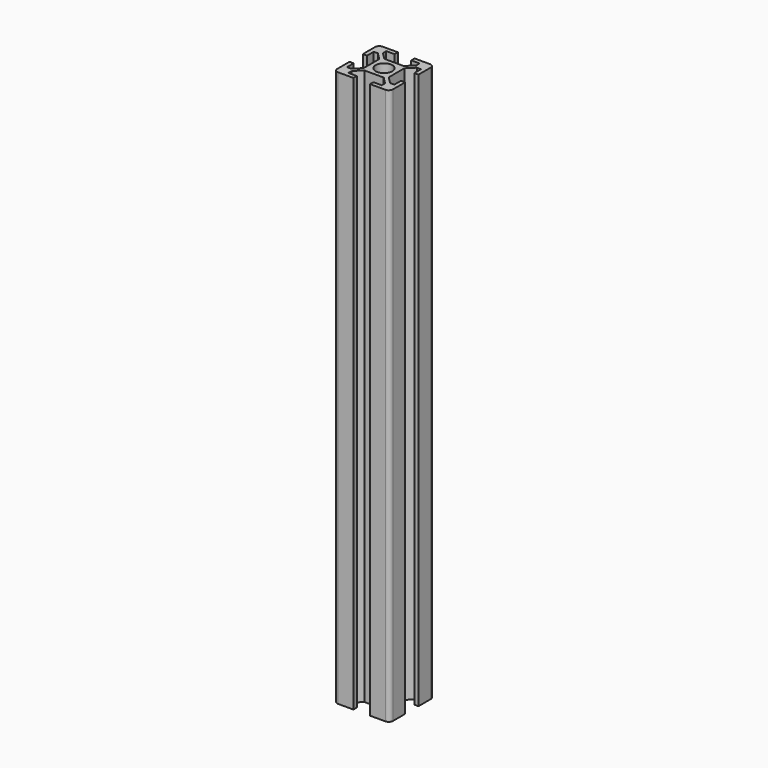
from build123d import *

# Parameters (mm, degrees)
F0_R     = 3
F1_DEPTH = 200


with BuildPart() as f1:
    # F0 (on Top) → F1 (new body)
    with BuildSketch(Plane.XY):
        with BuildLine():
            ThreePointArc((0, 1.5), (0.43934, 0.43934), (1.5, 0))
            Line((1.5, 0), (7, 0))
            Line((7, 0), (7, 1.5))
            Line((7, 1.5), (4, 1.5))
            Line((4, 1.5), (4, 3))
            Line((4, 3), (6.5, 5.5))
            Line((6.5, 5.5), (10, 5.5))
            Line((10, 5.5), (13.5, 5.5))
            Line((13.5, 5.5), (16, 3))
            Line((16, 3), (16, 1.5))
            Line((16, 1.5), (13, 1.5))
            Line((13, 1.5), (13, 0))
            Line((13, 0), (18.5, 0))
            ThreePointArc((18.5, 0), (19.56066, 0.43934), (20, 1.5))
            Line((20, 1.5), (20, 7))
            Line((20, 7), (18.5, 7))
            Line((18.5, 7), (18.5, 4))
            Line((18.5, 4), (17, 4))
            Line((17, 4), (14.5, 6.5))
            Line((14.5, 6.5), (14.5, 10))
            Line((14.5, 10), (14.5, 13.5))
            Line((14.5, 13.5), (17, 16))
            Line((17, 16), (18.5, 16))
            Line((18.5, 16), (18.5, 13))
            Line((18.5, 13), (20, 13))
            Line((20, 13), (20, 18.5))
            ThreePointArc((20, 18.5), (19.56066, 19.56066), (18.5, 20))
            Line((18.5, 20), (13, 20))
            Line((13, 20), (13, 18.5))
            Line((13, 18.5), (16, 18.5))
            Line((16, 18.5), (16, 17))
            Line((16, 17), (13.5, 14.5))
            Line((13.5, 14.5), (10, 14.5))
            Line((10, 14.5), (6.5, 14.5))
            Line((6.5, 14.5), (4, 17))
            Line((4, 17), (4, 18.5))
            Line((4, 18.5), (7, 18.5))
            Line((7, 18.5), (7, 20))
            Line((7, 20), (1.5, 20))
            ThreePointArc((1.5, 20), (0.43934, 19.56066), (0, 18.5))
            Line((0, 18.5), (0, 13))
            Line((0, 13), (1.5, 13))
            Line((1.5, 13), (1.5, 16))
            Line((1.5, 16), (3, 16))
            Line((3, 16), (5.5, 13.5))
            Line((5.5, 13.5), (5.5, 10))
            Line((5.5, 10), (5.5, 6.5))
            Line((5.5, 6.5), (3, 4))
            Line((3, 4), (1.5, 4))
            Line((1.5, 4), (1.5, 7))
            Line((1.5, 7), (0, 7))
            Line((0, 7), (0, 1.5))
        make_face()
        with Locations((10, 10)):
            Circle(F0_R, mode=Mode.SUBTRACT)
    extrude(amount=F1_DEPTH)


solid = f1.part
